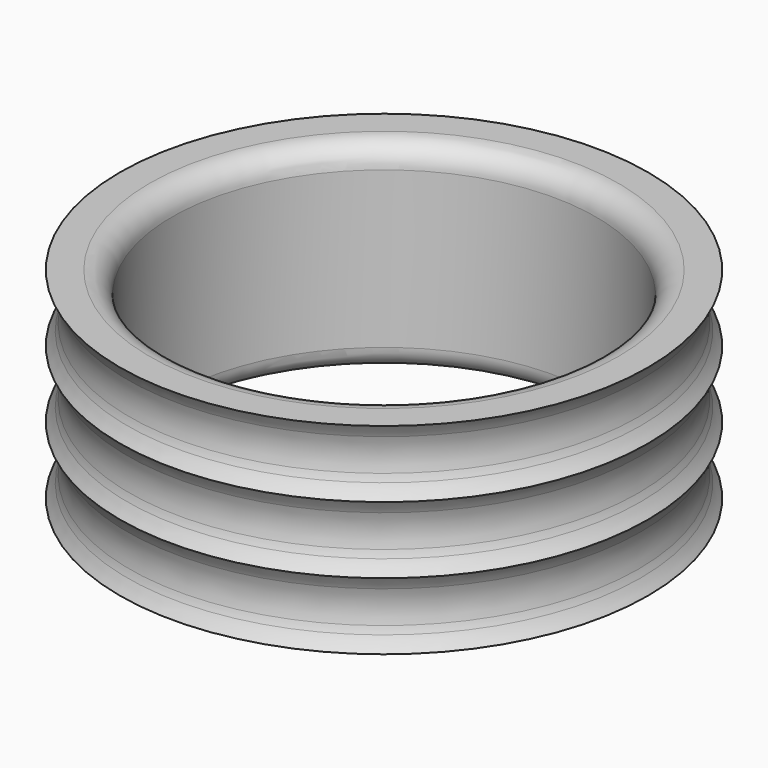
from build123d import *

# Parameters (mm, degrees)
F2_R = 1


with BuildPart() as f1:
    # F0 (on Front) → F1 (revolve)
    with BuildSketch(Plane.XZ):
        with BuildLine():
            Line((9.5, 4.5), (9.5, 3))
            Line((9.5, 3), (11.4001840326, 3))
            ThreePointArc((11.4001840326, 3), (11.3346730089, 3.7576804399), (11.5, 4.5))
            Line((11.5, 4.5), (9.5, 4.5))
        make_face()
        with BuildLine():
            Line((11.4001840326, 6), (9.5, 6))
            Line((9.5, 6), (9.5, 4.5))
            Line((9.5, 4.5), (11.5, 4.5))
            ThreePointArc((11.5, 4.5), (11.3346730089, 5.2423195601), (11.4001840326, 6))
        make_face()
        with BuildLine():
            Line((9.5, 7.5), (9.5, 6))
            Line((9.5, 6), (11.4001840326, 6))
            ThreePointArc((11.4001840326, 6), (11.3346730089, 6.7576804399), (11.5, 7.5))
            Line((11.5, 7.5), (9.5, 7.5))
        make_face()
        with BuildLine():
            Line((11.5, 8.6833752096), (11.5, 7.5))
            ThreePointArc((11.5, 7.5), (11.6444544099, 7.8070386236), (11.8291561976, 8.0916876048))
            ThreePointArc((11.8291561976, 8.0916876048), (11.6444544099, 8.3763365861), (11.5, 8.6833752096))
        make_face()
        with BuildLine():
            ThreePointArc((11.5, 5.6833752096), (11.4448304662, 5.8400289011), (11.4001840326, 6))
            ThreePointArc((11.4001840326, 6), (11.3346730089, 5.2423195601), (11.5, 4.5))
            Line((11.5, 4.5), (11.5, 5.6833752096))
        make_face()
        with BuildLine():
            Line((11.5, 5.6833752096), (11.5, 4.5))
            ThreePointArc((11.5, 4.5), (11.6444544099, 4.8070386236), (11.8291561976, 5.0916876048))
            ThreePointArc((11.8291561976, 5.0916876048), (11.6444544099, 5.3763365861), (11.5, 5.6833752096))
        make_face()
        with BuildLine():
            ThreePointArc((11.5, 2.6833752096), (11.4448304662, 2.8400289011), (11.4001840326, 3))
            ThreePointArc((11.4001840326, 3), (11.3330717644, 2.5481784102), (11.3492875031, 2.0916876048))
            Line((11.3492875031, 2.0916876048), (11.5, 2.0916876048))
            Line((11.5, 2.0916876048), (11.5, 2.6833752096))
        make_face()
        with BuildLine():
            Line((11.5, 2.6833752096), (11.5, 2.0916876048))
            Line((11.5, 2.0916876048), (11.8291561976, 2.0916876048))
            ThreePointArc((11.8291561976, 2.0916876048), (11.6444544099, 2.3763365861), (11.5, 2.6833752096))
        make_face()
        with BuildLine():
            Line((11.4001840326, 9), (9.5, 9))
            Line((9.5, 9), (9.5, 7.5))
            Line((9.5, 7.5), (11.5, 7.5))
            ThreePointArc((11.5, 7.5), (11.3346730089, 8.2423195601), (11.4001840326, 9))
        make_face()
        with BuildLine():
            ThreePointArc((11.5, 8.6833752096), (11.4448304662, 8.8400289011), (11.4001840326, 9))
            ThreePointArc((11.4001840326, 9), (11.3346730089, 8.2423195601), (11.5, 7.5))
            Line((11.5, 7.5), (11.5, 8.6833752096))
        make_face()
        with BuildLine():
            Line((9.5, 10.5), (9.5, 9))
            Line((9.5, 9), (11.4001840326, 9))
            ThreePointArc((11.4001840326, 9), (11.3346730089, 9.7576804399), (11.5, 10.5))
            Line((11.5, 10.5), (9.5, 10.5))
        make_face()
        with BuildLine():
            Line((11.4001840326, 3), (9.5, 3))
            Line((9.5, 3), (9.5, 2.0916876048))
            Line((9.5, 2.0916876048), (11.3492875031, 2.0916876048))
            ThreePointArc((11.3492875031, 2.0916876048), (11.3330717644, 2.5481784102), (11.4001840326, 3))
        make_face()
        with BuildLine():
            Line((9.5, 11.0916876048), (9.5, 10.5))
            Line((9.5, 10.5), (11.5, 10.5))
            ThreePointArc((11.5, 10.5), (11.4065122579, 10.7912254148), (11.3492875031, 11.0916876048))
            Line((11.3492875031, 11.0916876048), (9.5, 11.0916876048))
        make_face()
        with BuildLine():
            ThreePointArc((11.3492875031, 11.0916876048), (11.4065122579, 10.7912254148), (11.5, 10.5))
            Line((11.5, 10.5), (11.5, 11.0916876048))
            Line((11.5, 11.0916876048), (11.3492875031, 11.0916876048))
        make_face()
        with BuildLine():
            Line((11.5, 11.0916876048), (11.5, 10.5))
            ThreePointArc((11.5, 10.5), (11.6444544099, 10.8070386236), (11.8291561976, 11.0916876048))
            Line((11.8291561976, 11.0916876048), (11.5, 11.0916876048))
        make_face()
    revolve(axis=Axis((0, 0, 12.1688209474), (0, 0, 1)))

    # F2
    f2_edges = [f1.edges().sort_by_distance(p)[0] for p in [
        (-9.5, 0, 11.091688),
        (-9.5, 0, 2.091688),
    ]]
    fillet(f2_edges, radius=F2_R)


solid = f1.part
